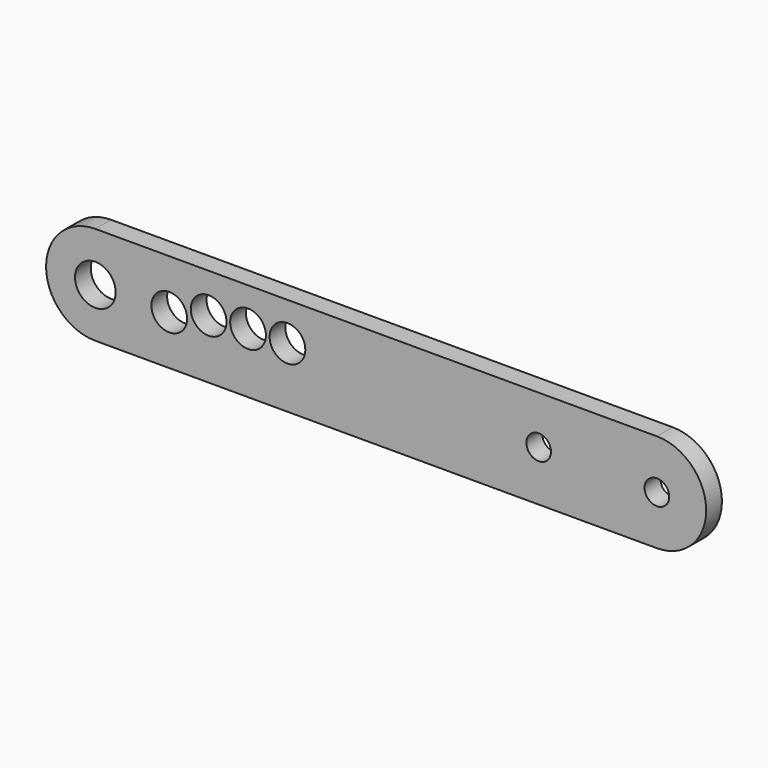
from build123d import *

# Parameters (mm, degrees)
F0_W      = 419.1
F0_H      = 88.9
F0_R      = 13.096875
F0_R_2    = 11.509375
F0_R_3    = 10.31875
F1_DEPTH  = 12.7
F2_R      = 11.509375
F3_DEPTH  = 12.701
F5_DEPTH  = 12.701
F7_DEPTH  = 12.7010001
F9_DEPTH  = 12.7
F10_R     = 13.096875
F10_R_2   = 11.509375
F10_R_3   = 7.9375
F11_DEPTH = 25.4010001


with BuildPart() as f1:
    # F0 (on Front) → F1 (new body)
    with BuildSketch(Plane.XZ):
        Rectangle(F0_W, F0_H)
        with Locations((-177.8, -12.7)):
            Circle(F0_R, mode=Mode.SUBTRACT)
        with Locations((-12.7, -18.7318846583)):
            Circle(F0_R_2, mode=Mode.SUBTRACT)
        with Locations((19.05, -19.1783625633)):
            Circle(F0_R_2, mode=Mode.SUBTRACT)
        with Locations((50.8, -18.7318846583)):
            Circle(F0_R_2, mode=Mode.SUBTRACT)
        with Locations((82.55, -19.05)):
            Circle(F0_R_2, mode=Mode.SUBTRACT)
        with Locations((133.35, -12.7)):
            Circle(F0_R_3, mode=Mode.SUBTRACT)
        with Locations((184.15, -12.7)):
            Circle(F0_R_3, mode=Mode.SUBTRACT)
    extrude(amount=-F1_DEPTH)

    # F2 (on face) → F3 (cut, through all)
    with BuildSketch(Plane.XZ):
        with Locations((-142.08252, 18.4232164174)):
            Circle(F2_R)
        with Locations((-104.306563735, 14.0248946846)):
            Circle(F2_R)
        with Locations((-71.5190842748, 1.6296281246)):
            Circle(F2_R)
        with Locations((-45.7596568011, -14.1053809535)):
            Circle(F2_R)
    extrude(amount=-F3_DEPTH, mode=Mode.SUBTRACT)

    # F4 (on face) → F5 (cut, through all)
    with BuildSketch(Plane.XZ):
        with BuildLine():
            ThreePointArc((-209.55, -12.7), (-207.0936907923, -0.4549120148), (-200.1048233219, 9.8955162937))
            Line((-200.1048233219, 9.8955162937), (-165.1, 44.45))
            Line((-165.1, 44.45), (-209.55, 44.45))
            Line((-209.55, 44.45), (-209.55, -12.7))
        make_face()
        with BuildLine():
            Line((-209.55, -44.45), (-177.8, -44.45))
            ThreePointArc((-177.8, -44.45), (-200.2506403027, -35.1506403027), (-209.55, -12.7))
            Line((-209.55, -12.7), (-209.55, -44.45))
        make_face()
        with BuildLine():
            ThreePointArc((-146.0861882684, -11.1845312756), (-146.0590483564, -11.9420496313), (-146.05, -12.7))
            ThreePointArc((-146.05, -12.7), (-155.3493596973, -35.1506403027), (-177.8, -44.45))
            Line((-177.8, -44.45), (-38.1, -44.45))
            add(Edge.make_bspline(
                [(-135.731991463, -1.5425124657), (-123.0853934374, -3.2529361125), (-97.8098704079, -7.8915227069), (-55.1757360667, -37.2664877617), (-44.6494842281, -43.1637651569), (-38.1, -44.45)],
                knots=[0, 0, 0, 0, 0.3555356426, 0.7550234425, 1, 1, 1, 1], degree=3))
            ThreePointArc((-135.731991463, -1.5425124657), (-142.8632378904, -4.2650367263), (-146.0861882684, -11.1845312756))
        make_face()
    extrude(amount=-F5_DEPTH, mode=Mode.SUBTRACT)

    # F6 (on face) → F7 (cut, through all)
    with BuildSketch(Plane.XZ):
        with BuildLine():
            Line((209.55, 44.45), (163.5125, 44.45))
            Line((163.5125, 44.45), (202.2463189928, 5.1236707474))
            ThreePointArc((202.2463189928, 5.1236707474), (207.6532604037, -3.0689694011), (209.55, -12.6999998198))
            Line((209.55, -12.6999998198), (209.55, 44.45))
        make_face()
        with BuildLine():
            Line((209.55, -44.45), (209.55, -12.6999998198))
            ThreePointArc((209.55, -12.6999998198), (206.8684506917, -24.0592252451), (199.39, -33.02))
            Line((199.39, -33.02), (184.15, -44.45))
            Line((184.15, -44.45), (209.55, -44.45))
        make_face()
    extrude(amount=-F7_DEPTH, mode=Mode.SUBTRACT)


with BuildPart() as f9:
    # F8 (on Front) → F9 (new body)
    with BuildSketch(Plane.XZ):
        with BuildLine():
            Line((180.975, 31.75), (-180.975, 31.75))
            ThreePointArc((-180.975, 31.75), (-212.725, 0), (-180.975, -31.75))
            Line((-180.975, -31.75), (180.975, -31.75))
            ThreePointArc((180.975, -31.75), (212.725, 0), (180.975, 31.75))
        make_face()
    extrude(amount=F9_DEPTH)


with BuildPart() as f11_tool:
    # F10 (on face) → F11 (new body, through all)
    with BuildSketch(Plane.XZ.offset(12.7)):
        with Locations((-180.975, 0)):
            Circle(F10_R)
        with Locations((-133.35, 0)):
            Circle(F10_R_2)
        with Locations((-107.95, 6.35)):
            Circle(F10_R_2)
        with Locations((-82.55, 7.0877922699)):
            Circle(F10_R_2)
        with Locations((-57.15, 7.0877922699)):
            Circle(F10_R_2)
        with Locations((104.7790011828, 0.7808740327)):
            Circle(F10_R_3)
        with Locations((180.975, 0)):
            Circle(F10_R_3)
    extrude(amount=-F11_DEPTH)


with BuildPart() as f1_1:
    add(f1.part)

    # F11: cut by f11_tool
    add(f11_tool.part, mode=Mode.SUBTRACT)


with BuildPart() as f9_1:
    add(f9.part)

    # F11: cut by f11_tool
    add(f11_tool.part, mode=Mode.SUBTRACT)


solid = f9_1.part
